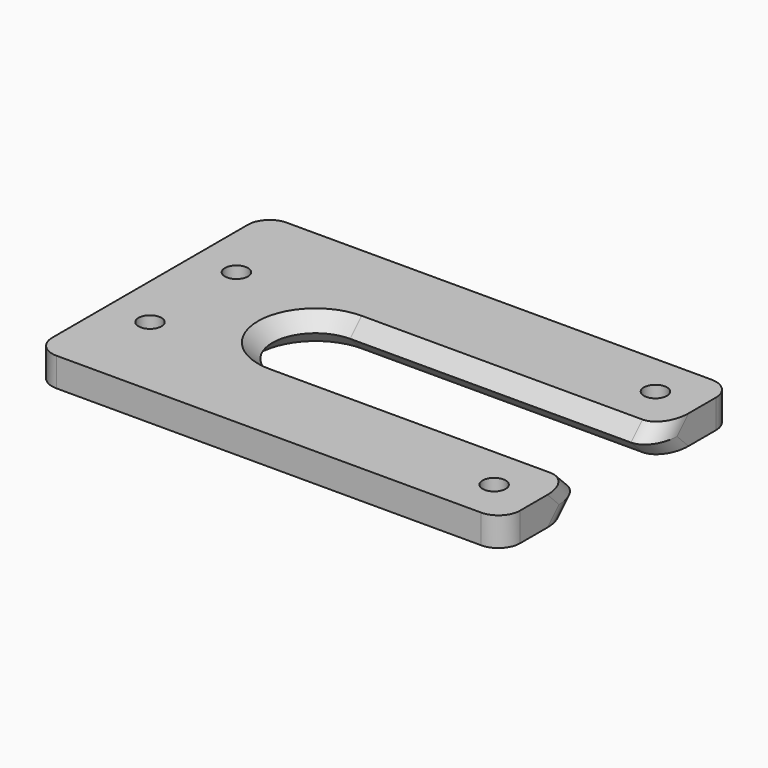
from build123d import *

# Parameters (mm, degrees)
PAD_DEPTH         = 65
SKETCH009_R       = 1.6
POCKET_DEPTH      = 2.001
POCKET_DEPTH_BACK = 2.001
SKETCH004_R       = 8
SKETCH003_R       = 6
SKETCH005_R       = 8
FILLET_R          = 3
FILLET001_R       = 3


with BuildPart() as part:
    # Sketch → Pad (new body)
    with BuildSketch(Plane.YZ):
        Polygon((0, 2), (-20, 2), (-20, 0), (-20, -2), (0, -2), (20, -2), (20, 0), (20, 2), align=None)
    extrude(amount=PAD_DEPTH)

    # Sketch009 → Pocket (cut, two sides)
    with BuildSketch(Plane.XY) as pocket_sk:
        with Locations((6, 7.5)):
            Circle(SKETCH009_R)
        with Locations((6, -7.5)):
            Circle(SKETCH009_R)
        with Locations((59, -14)):
            Circle(SKETCH009_R)
        with Locations((59, 14)):
            Circle(SKETCH009_R)
    extrude(amount=-POCKET_DEPTH, mode=Mode.SUBTRACT)
    extrude(pocket_sk.sketch, amount=POCKET_DEPTH_BACK, mode=Mode.SUBTRACT)

    # Sketch004 (on DatumPlane) → SubtractiveLoft section 0
    with BuildSketch(Plane.XY.offset(2)):
        with Locations((23, 0)):
            Circle(SKETCH004_R)
    # Sketch003 → SubtractiveLoft section 1
    with BuildSketch(Plane.XY):
        with Locations((23, 0)):
            Circle(SKETCH003_R)
    # Sketch005 (on DatumPlane) → SubtractiveLoft section 2
    with BuildSketch(Plane.XY.offset(-2)):
        with Locations((23, 0)):
            Circle(SKETCH005_R)
    loft(ruled=True, mode=Mode.SUBTRACT)

    # Sketch007 (on DatumPlane) → SubtractiveLoft001 section 0
    with BuildSketch(Plane.XY.offset(2)):
        Polygon((23, 0), (23, 8), (123, 8), (123, -8), (23, -8), align=None)
    # Sketch006 → SubtractiveLoft001 section 1
    with BuildSketch(Plane.XY):
        Polygon((23, 0), (23, 6), (123, 6), (123, -6), (23, -6), align=None)
    # Sketch008 (on DatumPlane) → SubtractiveLoft001 section 2
    with BuildSketch(Plane.XY.offset(-2)):
        Polygon((23, 8), (23, 0), (23, -8), (123, -8), (123, 8), align=None)
    loft(ruled=True, mode=Mode.SUBTRACT)

    # Fillet
    fillet_edges = [part.edges().sort_by_distance(p)[0] for p in [
        (65, -20, 1),
        (0, -20, 1),
        (0, 20, 1),
        (65, 20, 1),
    ]]
    fillet(fillet_edges, radius=FILLET_R)

    # Fillet001
    fillet001_edges = [part.edges().sort_by_distance(p)[0] for p in [
        (65, -7, 1),
        (65, -7, -1),
        (65, 7, -1),
        (65, 7, 1),
    ]]
    fillet(fillet001_edges, radius=FILLET001_R)


solid = part.part
